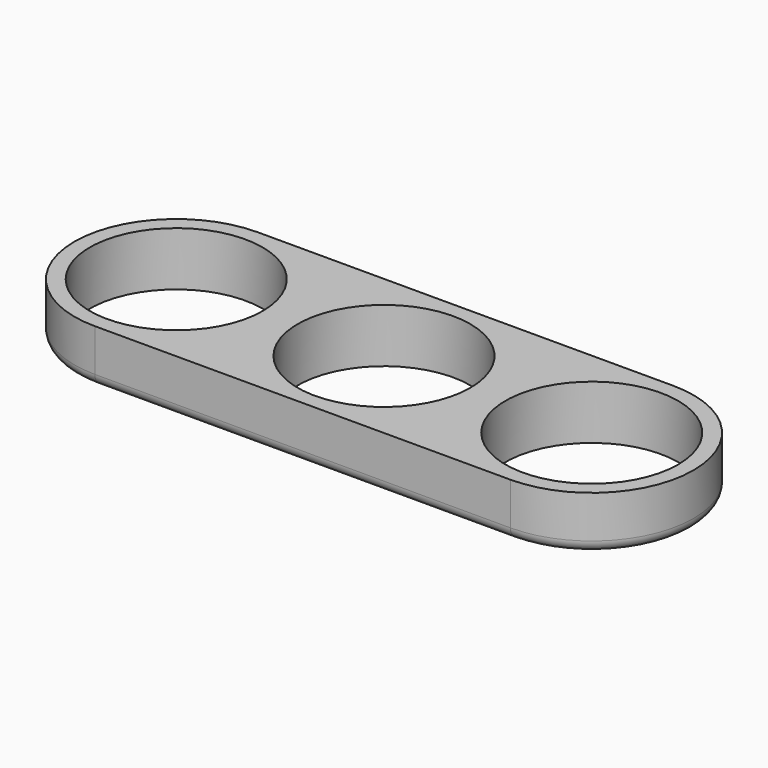
from build123d import *

# Parameters (mm, degrees)
F0_R     = 11.2
F1_DEPTH = 7
F2_R     = 1.5


with BuildPart() as f1:
    # F0 (on Top) → F1 (new body)
    with BuildSketch(Plane.XY):
        with BuildLine():
            Line((0, 13.2), (-26.95201, 13.2))
            ThreePointArc((-26.95201, 13.2), (-40.15201, 0), (-26.95201, -13.2))
            Line((-26.95201, -13.2), (0, -13.2))
            Line((0, -13.2), (26.95201, -13.2))
            ThreePointArc((26.95201, -13.2), (40.15201, 0), (26.95201, 13.2))
            Line((26.95201, 13.2), (0, 13.2))
        make_face()
        with Locations((-26.95201, 0)):
            Circle(F0_R, mode=Mode.SUBTRACT)
        Circle(F0_R, mode=Mode.SUBTRACT)
        with Locations((26.95201, 0)):
            Circle(F0_R, mode=Mode.SUBTRACT)
    extrude(amount=F1_DEPTH)

    # F2
    f2_edges = [f1.edges().sort_by_distance(p)[0] for p in [
        (0, 13.2, 0),
        (-40.15201, 0, 0),
        (0, -13.2, 0),
        (40.15201, 0, 0),
    ]]
    fillet(f2_edges, radius=F2_R)


solid = f1.part
